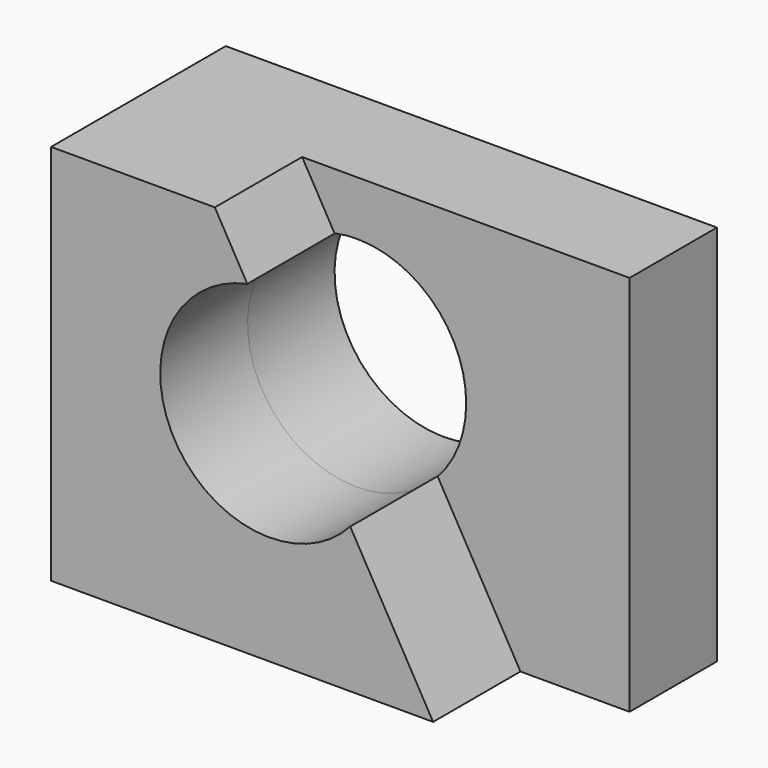
from build123d import *

# Parameters (mm, degrees)
F0_W     = 57.15
F0_H     = 44.45
F1_DEPTH = 25.4
F3_DEPTH = 12.7
F4_R     = 12.7
F5_DEPTH = 12.701
F7_DEPTH = 25.4


with BuildPart() as f1:
    # F0 (on Front) → F1 (new body)
    with BuildSketch(Plane.XZ):
        with Locations((-28.575, 22.225)):
            Rectangle(F0_W, F0_H)
    extrude(amount=F1_DEPTH)

    # F2 (on face) → F3 (cut)
    with BuildSketch(Plane.XZ.offset(25.4)):
        Polygon((0, 44.45), (-38.1, 44.45), (-12.7, 0), (0, 0), align=None)
    extrude(amount=-F3_DEPTH, mode=Mode.SUBTRACT)

    # F4 (on face) → F5 (cut, through all)
    with BuildSketch(Plane.XZ.offset(12.7)):
        with Locations((-31.75, 25.4)):
            Circle(F4_R)
    extrude(amount=F5_DEPTH, mode=Mode.SUBTRACT)

    # F6 (on face) → F7 (cut)
    with BuildSketch(Plane.XZ.offset(12.7)):
        with BuildLine():
            Line((-34.321148, 37.837009), (-34.341116, 37.871952))
            ThreePointArc((-34.341116, 37.871952), (-42.809914, 19.080049), (-22.320423, 16.83574))
            Line((-22.320423, 16.83574), (-22.34039, 16.870683))
            ThreePointArc((-22.34039, 16.870683), (-42.776688, 19.099035), (-34.321148, 37.837009))
        make_face()
        with BuildLine():
            ThreePointArc((-22.320423, 16.83574), (-19.867661, 20.809412), (-19.011732, 25.4))
            ThreePointArc((-19.011732, 25.4), (-23.71081, 35.281037), (-34.341116, 37.871952))
            Line((-34.341116, 37.871952), (-34.321148, 37.837009))
            ThreePointArc((-34.321148, 37.837009), (-42.776688, 19.099035), (-22.34039, 16.870683))
            Line((-22.34039, 16.870683), (-22.320423, 16.83574))
        make_face()
    extrude(amount=-F7_DEPTH, mode=Mode.SUBTRACT)


solid = f1.part
